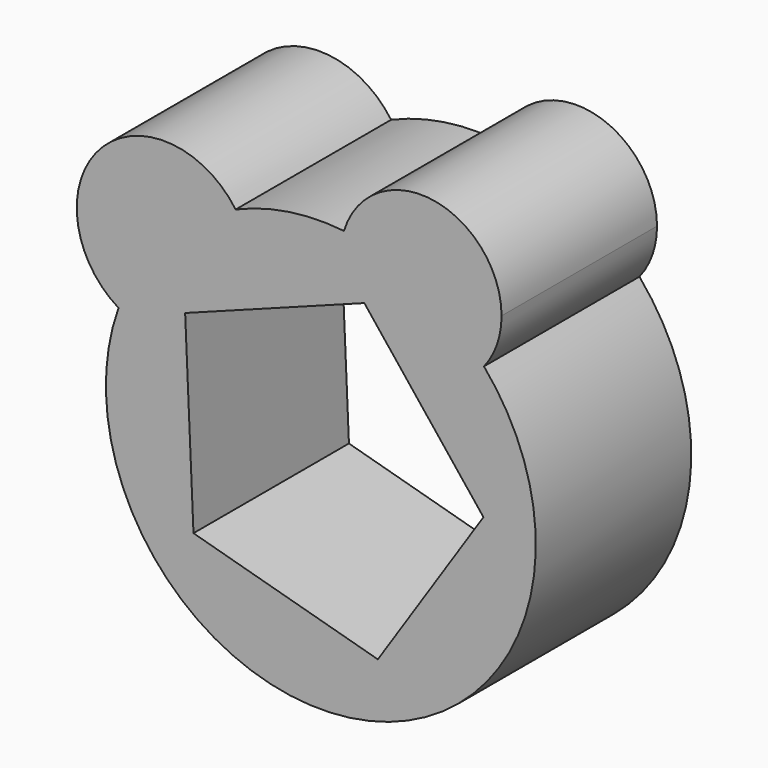
from build123d import *

# Parameters (mm, degrees)
F1_DEPTH = 42.672
F3_DEPTH = 175.514


with BuildPart() as f1:
    # F0 (on Front) → F1 (new body)
    with BuildSketch(Plane.XZ):
        with BuildLine():
            ThreePointArc((-49.4331763688, 44.2572140434), (-53.3120424219, 28.9735438048), (-44.431932504, 15.9435850303))
            ThreePointArc((-44.431932504, 15.9435850303), (-34.4145020175, 32.3115549077), (-18.7098101303, 43.339791584))
            ThreePointArc((-18.7098101303, 43.339791584), (-27.9570717117, 50.3825522599), (-39.5735288523, 50.7951636889))
            ThreePointArc((-39.5735288523, 50.7951636889), (-38.8889433123, 49.2770066812), (-38.6545578703, 47.6282127202))
            ThreePointArc((-38.6545578703, 47.6282127202), (-42.8049974008, 41.9814824978), (-49.4331763688, 44.2572140434))
        make_face()
        with BuildLine():
            ThreePointArc((-18.7098101303, 43.339791584), (-34.4145020175, 32.3115549077), (-44.431932504, 15.9435850303))
            ThreePointArc((-44.431932504, 15.9435850303), (-25.0330306038, 15.5709651458), (-15.2244173001, 32.3115549077))
            ThreePointArc((-15.2244173001, 32.3115549077), (-16.1165004977, 38.094503277), (-18.7098101303, 43.339791584))
        make_face()
        with BuildLine():
            ThreePointArc((5.0797397629, 46.9317672116), (21.9959900917, 41.7680613573), (35.8244299144, 30.7409295723))
            ThreePointArc((35.8244299144, 30.7409295723), (38.6903667496, 35.9267283468), (39.6828039182, 41.7680613573))
            ThreePointArc((39.6828039182, 41.7680613573), (24.6064319247, 59.2611736239), (5.0797397629, 46.9317672116))
        make_face()
        with BuildLine():
            ThreePointArc((-44.431932504, 15.9435850303), (-8.0915489004, -46.5072184296), (47.2058738894, 0))
            ThreePointArc((47.2058738894, 0), (44.2691656255, 16.3901038582), (35.8244299144, 30.7409295723))
            ThreePointArc((35.8244299144, 30.7409295723), (13.7546643915, 26.1186545302), (5.0797397629, 46.9317672116))
            ThreePointArc((5.0797397629, 46.9317672116), (-7.0477142949, 46.6768063698), (-18.7098101303, 43.339791584))
            ThreePointArc((-18.7098101303, 43.339791584), (-16.1165004977, 38.094503277), (-15.2244173001, 32.3115549077))
            ThreePointArc((-15.2244173001, 32.3115549077), (-25.0330306038, 15.5709651458), (-44.431932504, 15.9435850303))
        make_face()
        with BuildLine():
            ThreePointArc((5.0797397629, 46.9317672116), (13.7546643915, 26.1186545302), (35.8244299144, 30.7409295723))
            ThreePointArc((35.8244299144, 30.7409295723), (21.9959900917, 41.7680613573), (5.0797397629, 46.9317672116))
        make_face()
        with BuildLine():
            ThreePointArc((-39.5735288523, 50.7951636889), (-45.0197414151, 48.3049363131), (-49.4331763688, 44.2572140434))
            ThreePointArc((-49.4331763688, 44.2572140434), (-42.8049974008, 41.9814824978), (-38.6545578703, 47.6282127202))
            ThreePointArc((-38.6545578703, 47.6282127202), (-38.8889433123, 49.2770066812), (-39.5735288523, 50.7951636889))
        make_face()
    extrude(amount=F1_DEPTH)

    # F2 (on face) → F3 (cut)
    with BuildSketch(Plane.XZ.offset(42.672)):
        Polygon((35.7048984071, 1.5595109514), (9.5502373377, 34.4392916807), (-29.8025271318, 19.7251418557), (-27.9692120558, -22.2484835809), (12.5166034428, -33.4754609069), align=None)
    extrude(amount=-F3_DEPTH, mode=Mode.SUBTRACT)


solid = f1.part
